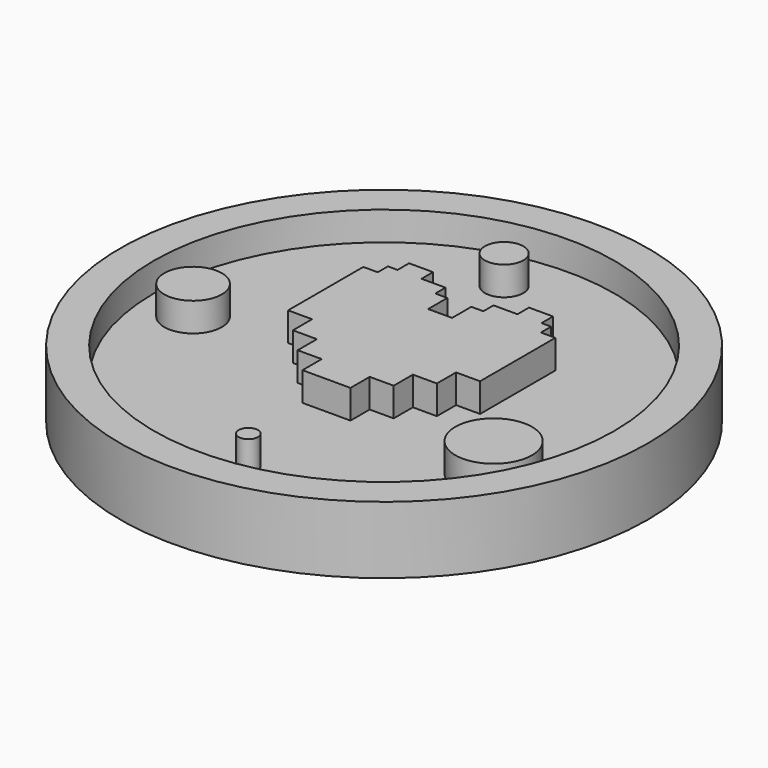
from build123d import *

# Parameters (mm, degrees)
F0_R     = 27.5
F0_R_2   = 24
F1_DEPTH = 7
F2_R     = 27.5
F3_DEPTH = 4
F4_R     = 3
F4_R_2   = 1
F4_R_3   = 4
F4_R_4   = 2
F5_DEPTH = 3
F7_DEPTH = 7


with BuildPart() as f1:
    # F0 (on Top) → F1 (new body)
    with BuildSketch(Plane.XY):
        Circle(F0_R)
        Circle(F0_R_2, mode=Mode.SUBTRACT)
    extrude(amount=F1_DEPTH)

    # F2 (on Top) → F3 (join)
    with BuildSketch(Plane.XY):
        Circle(F2_R)
    extrude(amount=F3_DEPTH)

    # F4 (on face) → F5 (join)
    with BuildSketch(Plane.XY.offset(4)):
        with Locations((-18.963763, -1.172897)):
            Circle(F4_R)
        with Locations((1.036237, -18.971721)):
            Circle(F4_R_2)
        with Locations((17.442618, -7.533598)):
            Circle(F4_R_3)
        with Locations((-2.557382, 18.827103)):
            Circle(F4_R_4)
    extrude(amount=F5_DEPTH)

    # F6 (on Top) → F7 (join)
    with BuildSketch(Plane.XY):
        Polygon((-2.5, -7.5), (0, -7.5), (2.5, -7.5), (2.5, -5), (5, -5), (5, -2.5), (7.5, -2.5), (7.5, 0), (10, 0), (10, 9.797959), (8.5, 9.797959), (8.5, 11.124298), (7.5, 11.124298), (7.5, 12.624298), (5, 12.624298), (5, 11.124298), (2.5, 11.124298), (2.5, 9.797959), (1.25, 9.797959), (1.25, 7.297959), (0, 7.297959), (-1.25, 7.297959), (-1.25, 9.797959), (-2.5, 9.797959), (-2.5, 11.124298), (-5, 11.124298), (-5, 12.624298), (-7.5, 12.624298), (-7.5, 11.124298), (-8.5, 11.124298), (-8.5, 9.797959), (-10, 9.797959), (-10, 0), (-7.5, 0), (-7.5, -2.5), (-5, -2.5), (-5, -5), (-2.5, -5), align=None)
    extrude(amount=F7_DEPTH)


solid = f1.part
